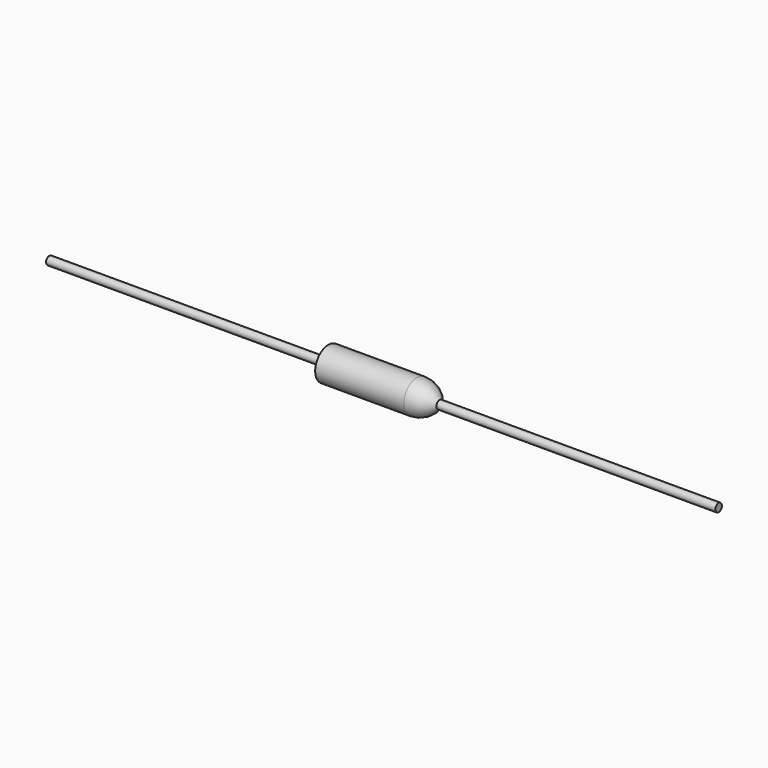
from build123d import *


with BuildPart() as f1:
    # F0 (on Front) → F1 (revolve)
    with BuildSketch(Plane.XZ):
        with BuildLine():
            Line((-40.6, 0.5), (-40.6, 0))
            Line((-40.6, 0), (-6.75, 0))
            Line((-6.75, 0), (0, 0))
            Line((0, 0), (6.75, 0))
            Line((6.75, 0), (40.6, 0))
            Line((40.6, 0), (40.6, 0.5))
            Line((40.6, 0.5), (6.75, 0.5))
            ThreePointArc((6.75, 0.5), (5.566246, 1.600617), (4, 2))
            Line((4, 2), (0, 2))
            Line((0, 2), (-6.75, 2))
            Line((-6.75, 2), (-6.75, 0.5))
            Line((-6.75, 0.5), (-40.6, 0.5))
        make_face()
    revolve(axis=Axis((-3.375, 0, 0), (1, 0, 0)))


solid = f1.part
